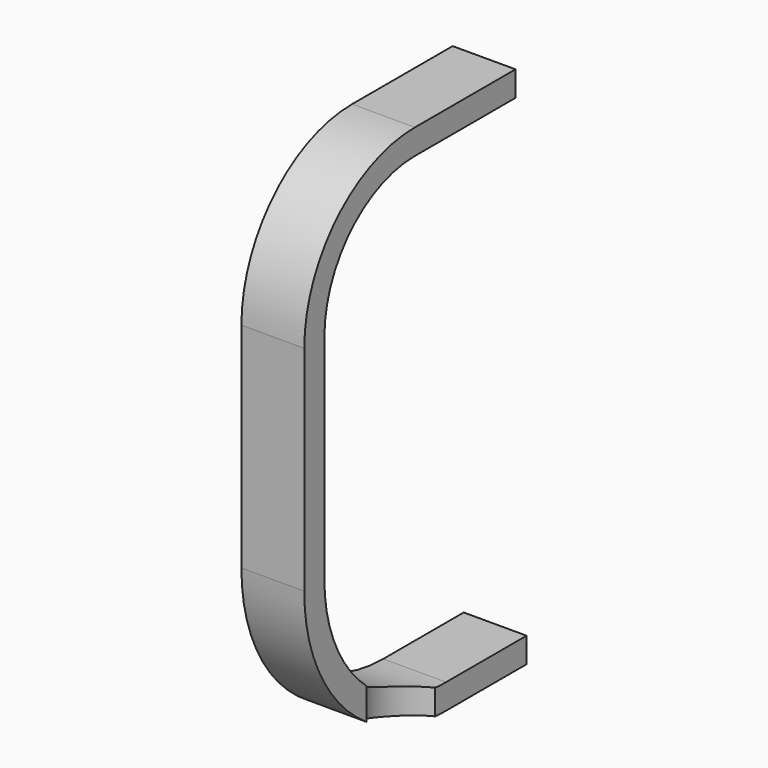
from build123d import *

# Parameters (mm, degrees)
F1_DEPTH = 5
F2_R     = 4
F3_DEPTH = 10


with BuildPart() as f1:
    # F0 (on Right) → F1 (new body)
    with BuildSketch(Plane.YZ):
        with BuildLine():
            Line((9, 9), (19, 9))
            Line((19, 9), (19, 11))
            Line((19, 11), (9, 11))
            ThreePointArc((9, 11), (1.221825, 7.778175), (-2, 0))
            Line((-2, 0), (-2, -17))
            ThreePointArc((-2, -17), (2.129794, -26.970206), (12.1, -31.1))
            Line((12.1, -31.1), (20.1, -31.1))
            Line((20.1, -31.1), (20.1, -29.1))
            Line((20.1, -29.1), (12.1, -29.1))
            ThreePointArc((12.1, -29.1), (3.544008, -25.555992), (0, -17))
            Line((0, -17), (0, 0))
            ThreePointArc((0, 0), (2.636039, 6.363961), (9, 9))
        make_face()
    extrude(amount=F1_DEPTH)

    # F2 (on face) → F3 (cut)
    with BuildSketch(Plane(origin=(0, 0, -31.1), x_dir=(1, 0, 0), z_dir=(0, 0, -1))):
        with Locations((7.078093, -7.6)):
            Circle(F2_R)
    extrude(amount=-F3_DEPTH, mode=Mode.SUBTRACT)


solid = f1.part
